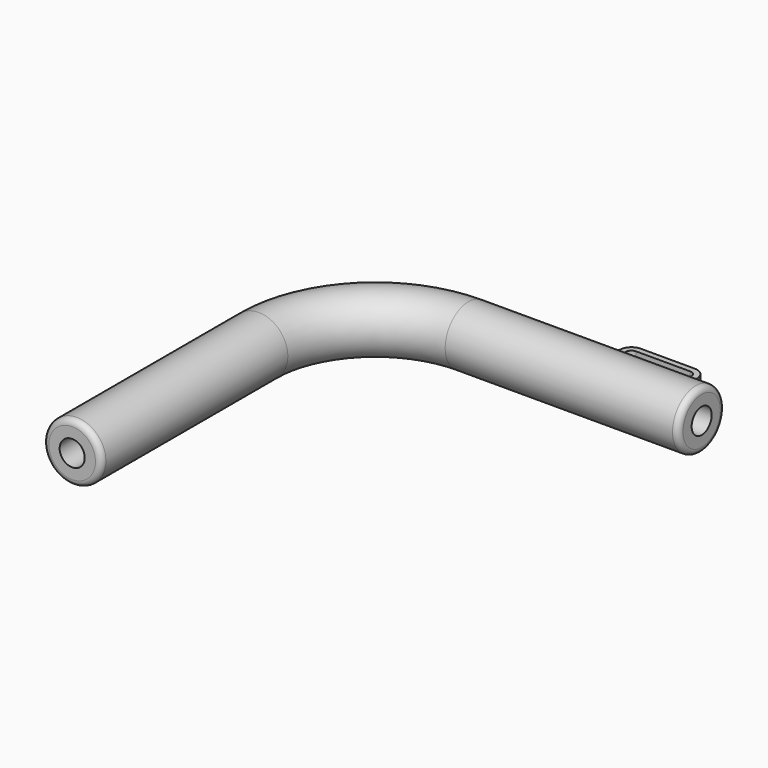
from build123d import *

# Parameters (mm, degrees)
F1_R     = 5
F1_R_2   = 2.15
F3_R     = 1
F5_DEPTH = 1.5


with BuildPart() as f2:
    # F2: sweep along a path in F0
    with BuildLine(Plane.XY) as f2_path:
        Line((0, 0), (-40, 0))
        ThreePointArc((-40, 0), (-54.1421356237, -5.8578643763), (-60, -20))
        Line((-60, -20), (-60, -60))
    # F1 (on Right) → F2 (sweep)
    with BuildSketch(Plane.YZ):
        Circle(F1_R)
        Circle(F1_R_2, mode=Mode.SUBTRACT)
    sweep(path=f2_path.line)

    # F3
    f3_edges = [f2.edges().sort_by_distance(p)[0] for p in [
        (-55, -60, 0),
        (0, -5, 0),
    ]]
    fillet(f3_edges, radius=F3_R)

    # F4 (on Top) → F5 (join, symmetric)
    with BuildSketch(Plane.XY):
        Polygon((-19.8250226729, 5), (-20, 3), (-6, 3), (-6.1749773271, 5), align=None)
        with BuildLine():
            Line((-19.634795067, 7.1743114855), (-19.8250226729, 5))
            Line((-19.8250226729, 5), (-6.1749773271, 5))
            Line((-6.1749773271, 5), (-6.365204933, 7.1743114855))
            ThreePointArc((-6.365204933, 7.1743114855), (-7.006413914, 8.4745546736), (-8.3575943292, 9))
            Line((-8.3575943292, 9), (-17.6424056708, 9))
            ThreePointArc((-17.6424056708, 9), (-18.993586086, 8.4745546736), (-19.634795067, 7.1743114855))
        make_face()
        with BuildLine():
            Line((-8.3575943292, 6), (-17.6424056708, 6))
            ThreePointArc((-17.6424056708, 6), (-18.6424056708, 7), (-17.6424056708, 8))
            Line((-17.6424056708, 8), (-8.3575943292, 8))
            ThreePointArc((-8.3575943292, 8), (-7.3575943292, 7), (-8.3575943292, 6))
        make_face(mode=Mode.SUBTRACT)
    extrude(amount=F5_DEPTH, both=True)


solid = f2.part
